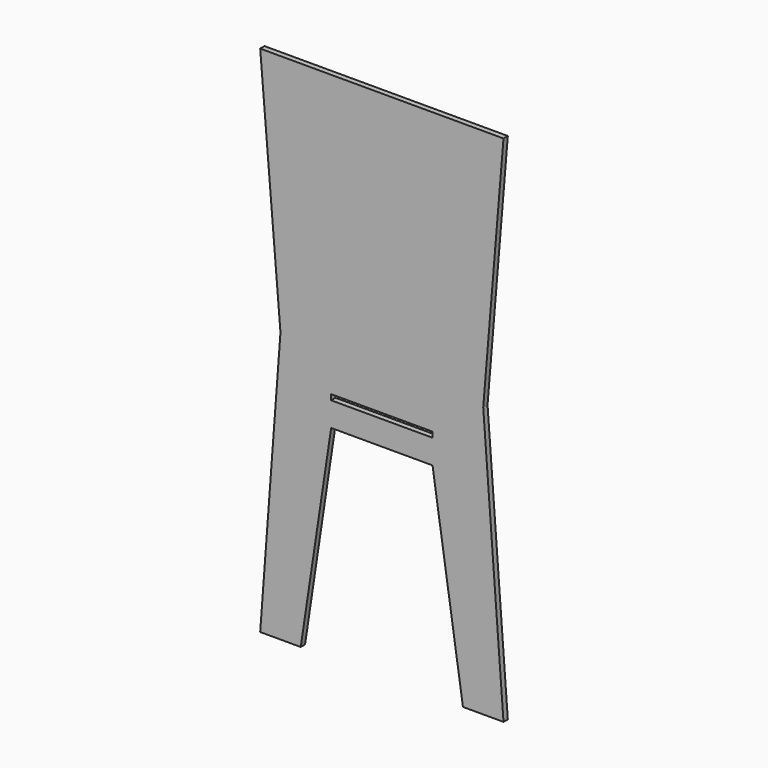
from build123d import *

# Parameters (mm, degrees)
F0_W     = 37.5
F0_H     = 2
F1_DEPTH = 2


with BuildPart() as f1:
    # F0 (on Front) → F1 (new body)
    with BuildSketch(Plane.XZ):
        Polygon((-45, 130.666667), (-37.5, 40.666667), (-39.375, 15.666667), (-18.75, 15.666667), (18.75, 15.666667), (39.375, 15.666667), (37.5, 40.666667), (45, 130.666667), align=None)
        with Locations((0, 25.666667)):
            Rectangle(F0_W, F0_H, mode=Mode.SUBTRACT)
        Polygon((-18.75, 15.666667), (-39.375, 15.666667), (-45, -59.333333), (-30, -59.333333), align=None)
        Polygon((39.375, 15.666667), (18.75, 15.666667), (30, -59.333333), (45, -59.333333), align=None)
    extrude(amount=F1_DEPTH)


solid = f1.part
